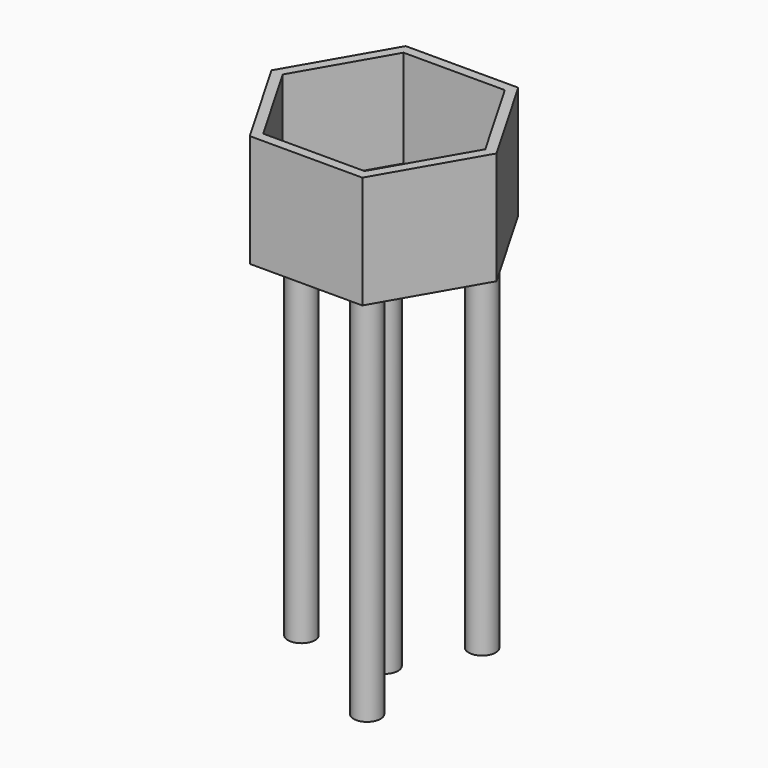
from build123d import *

# Parameters (mm, degrees)
F1_DEPTH = 15
F2_DEPTH = 2
F3_R     = 1.8
F4_DEPTH = 50


with BuildPart() as f1:
    # F0 (on Top) → F1 (new body)
    with BuildSketch(Plane.XY):
        Polygon((7.5, -12.990381), (15, 0), (7.5, 12.990381), (-7.5, 12.990381), (-15, 0), (-7.5, -12.990381), align=None)
        Polygon((6.75, 11.691343), (13.5, 0), (6.75, -11.691343), (-6.75, -11.691343), (-13.5, 0), (-6.75, 11.691343), align=None, mode=Mode.SUBTRACT)
    extrude(amount=F1_DEPTH)

    # F0 (on Top) → F2 (join)
    with BuildSketch(Plane.XY):
        Polygon((6.75, -11.691343), (13.5, 0), (6.75, 11.691343), (-6.75, 11.691343), (-13.5, 0), (-6.75, -11.691343), align=None)
    extrude(amount=F2_DEPTH)

    # F3 (on Top) → F4 (join)
    with BuildSketch(Plane.XY):
        with Locations((-11, 0)):
            Circle(F3_R)
        with Locations((5.427412, 9.569215)):
            Circle(F3_R)
        with Locations((5.408632, -9.580663)):
            Circle(F3_R)
        with Locations((0.070379, -0.000349)):
            Circle(F3_R)
    extrude(amount=-F4_DEPTH)


solid = f1.part
